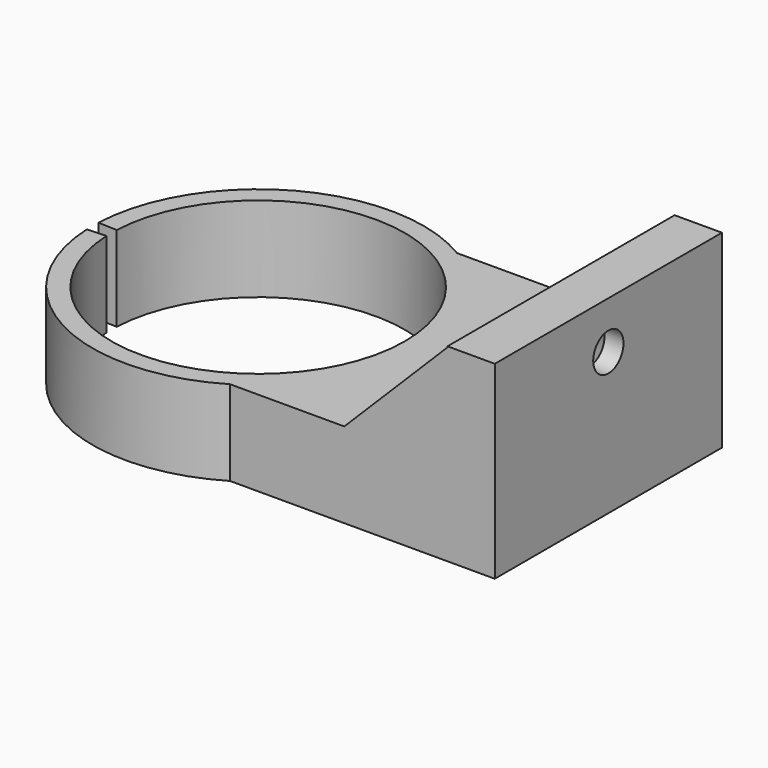
from build123d import *

# Parameters (mm, degrees)
CYLINDER003_R               = 3.5
CYLINDER003_DEPTH           = 10
CYLINDER002_R               = 2
CYLINDER002_DEPTH           = 10
FUSION_PITCH_ANGLE          = -90
CYLINDER_R                  = 15.5
CYLINDER_DEPTH              = 9
CYLINDER001_W               = 17.5
CYLINDER001_H               = 9
CYLINDER001_ANGLE           = 355
CYLINDER001_PLACEMENT_ANGLE = 182.5
BOX001_W                    = 5
BOX001_H                    = 30
BOX001_DEPTH                = 20
BOX_W                       = 24
BOX_H                       = 30
BOX_DEPTH                   = 9
CHAMFER_SIZE                = 10.9


with BuildPart() as cylinder003:
    # Cylinder003 → Cylinder003 (new body)
    with BuildSketch(Plane(origin=(15, -5, 5), x_dir=(1, 0, 0), z_dir=(0, 0, 1))):
        Circle(CYLINDER003_R)
    extrude(amount=CYLINDER003_DEPTH)


with BuildPart() as cone:
    # Cone → Cone (revolve)
    with BuildSketch(Plane(origin=(15, -5, 3), x_dir=(1, 0, 0), z_dir=(0, -1, 0))):
        Polygon((0, 0), (2, 0), (3.5, 2), (0, 2), align=None)
    revolve(axis=Axis((15, -5, 3), (0, 0, 1)))


with BuildPart() as fusion:
    # Cylinder002 → Cylinder002 (new body)
    with BuildSketch(Plane(origin=(15, -5, 0), x_dir=(1, 0, 0), z_dir=(0, 0, 1))):
        Circle(CYLINDER002_R)
    extrude(amount=CYLINDER002_DEPTH)

    # Fusion: union Cylinder003, Cone
    add(cylinder003.part)
    add(cone.part)


with BuildPart() as fusion_1:
    # Fusion pitch: moved
    add(fusion.part.rotate(Axis((0, 0, 0), (0, 1, 0)), FUSION_PITCH_ANGLE))


with BuildPart() as fusion_2:
    # Fusion placement: moved
    add(fusion_1.part.moved(Location((38, 5, 0))))


with BuildPart() as fusion002:
    # Cylinder → Cylinder (new body)
    with BuildSketch(Plane.XY):
        Circle(CYLINDER_R)
    extrude(amount=CYLINDER_DEPTH)

    # Fusion002: union Fusion
    add(fusion_2.part)


with BuildPart() as cylinder001:
    # Cylinder001 → Cylinder001 (revolve)
    with BuildSketch(Plane.XZ):
        with Locations((8.75, 4.5)):
            Rectangle(CYLINDER001_W, CYLINDER001_H)
    revolve(axis=Axis((0, 0, 0), (0, 0, 1)), revolution_arc=CYLINDER001_ANGLE)


with BuildPart() as cylinder001_1:
    # Cylinder001 placement: moved
    add(cylinder001.part.rotate(Axis((0, 0, 0), (0, 0, 1)), CYLINDER001_PLACEMENT_ANGLE))


with BuildPart() as cube001:
    # Box001 → Box001 (new body)
    with BuildSketch(Plane(origin=(32, -15, 0), x_dir=(1, 0, 0), z_dir=(0, 0, 1))):
        with Locations((2.5, 15)):
            Rectangle(BOX001_W, BOX001_H)
    extrude(amount=BOX001_DEPTH)


with BuildPart() as cut:
    # Box → Box (new body)
    with BuildSketch(Plane(origin=(8, -15, 0), x_dir=(1, 0, 0), z_dir=(0, 0, 1))):
        with Locations((12, 15)):
            Rectangle(BOX_W, BOX_H)
    extrude(amount=BOX_DEPTH)

    # Fusion003: union Cube001
    add(cube001.part)

    # Chamfer
    chamfer_edges = [cut.edges().sort_by_distance(p)[0] for p in [
        (32, 0, 9),
    ]]
    chamfer(chamfer_edges, length=CHAMFER_SIZE)

    # Fusion004: union Cylinder001
    add(cylinder001_1.part)

    # Cut: cut Fusion002
    add(fusion002.part, mode=Mode.SUBTRACT)


solid = cut.part
